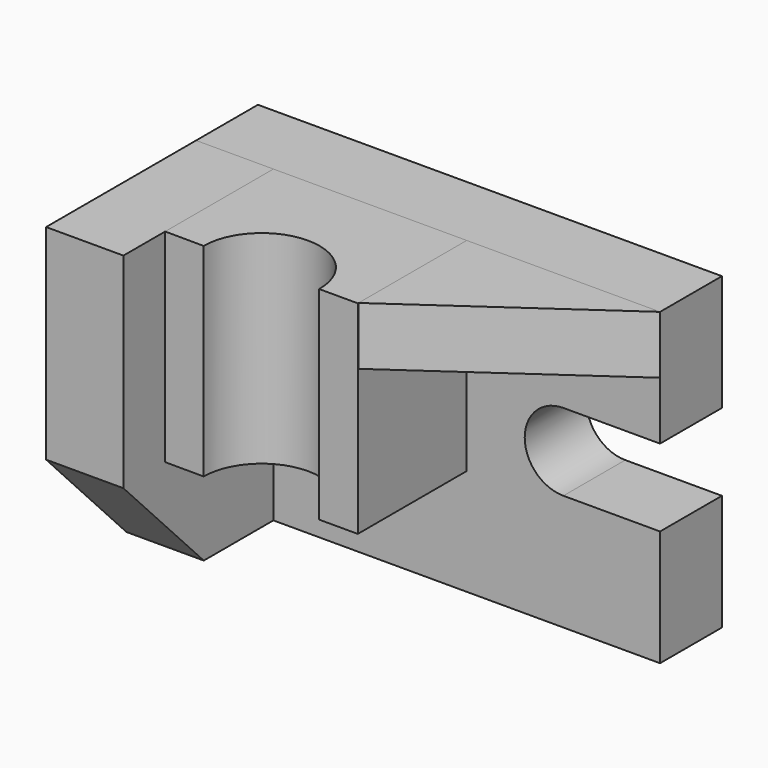
from build123d import *

# Parameters (mm, degrees)
F1_DEPTH = 406.4
F3_DEPTH = 304.8
F5_DEPTH = 1066.8
F7_DEPTH = 406.4


with BuildPart() as f1:
    # F0 (on Front) → F1 (new body)
    with BuildSketch(Plane.XZ):
        with BuildLine():
            Line((-484.81019, 1288.32825), (-484.81019, -337.27175))
            Line((-484.81019, -337.27175), (1953.58981, -337.27175))
            Line((1953.58981, -337.27175), (1953.58981, 272.32825))
            Line((1953.58981, 272.32825), (1445.58981, 272.32825))
            ThreePointArc((1445.58981, 272.32825), (1242.38981, 475.52825), (1445.58981, 678.72825))
            Line((1445.58981, 678.72825), (1953.58981, 678.72825))
            Line((1953.58981, 678.72825), (1953.58981, 1288.32825))
            Line((1953.58981, 1288.32825), (-484.81019, 1288.32825))
        make_face()
    extrude(amount=F1_DEPTH)


with BuildPart() as f3:
    # F2 (on face) → F3 (new body)
    with BuildSketch(Plane.XY.offset(1288.32825)):
        Polygon((1953.58981, -406.4), (937.58981, -406.4), (937.58981, -1117.6), align=None)
    extrude(amount=-F3_DEPTH)


with BuildPart() as f5:
    # F4 (on face) → F5 (new body)
    with BuildSketch(Plane.XY.offset(1288.32825)):
        with BuildLine():
            Line((937.635082, -406.4), (-78.41019, -406.4))
            Line((-78.41019, -406.4), (-78.41019, -1003.772673))
            Line((-78.41019, -1003.772673), (-78.41019, -1117.6))
            Line((-78.41019, -1117.6), (124.835082, -1118.636847))
            ThreePointArc((124.835082, -1118.636847), (428.017615, -813.832509), (734.435082, -1115.384608))
            ThreePointArc((734.435082, -1115.384608), (734.452433, -1118.636847), (734.435082, -1121.889085))
            Line((734.435082, -1121.889085), (937.635082, -1121.889085))
            Line((937.635082, -1121.889085), (937.635082, -406.4))
        make_face()
    extrude(amount=-F5_DEPTH)


with BuildPart() as f7:
    # F6 (on face) → F7 (new body)
    with BuildSketch(Plane(origin=(-484.81019, 0, 0), x_dir=(0, -1, 0), z_dir=(-1, 0, 0))):
        Polygon((406.4, 1288.32825), (406.4, -337.27175), (863.6, -337.27175), (1391.577024, 212.168203), (1391.577024, 1288.32825), align=None)
    extrude(amount=-F7_DEPTH)


solid = Compound([f1.part, f3.part, f5.part, f7.part])
